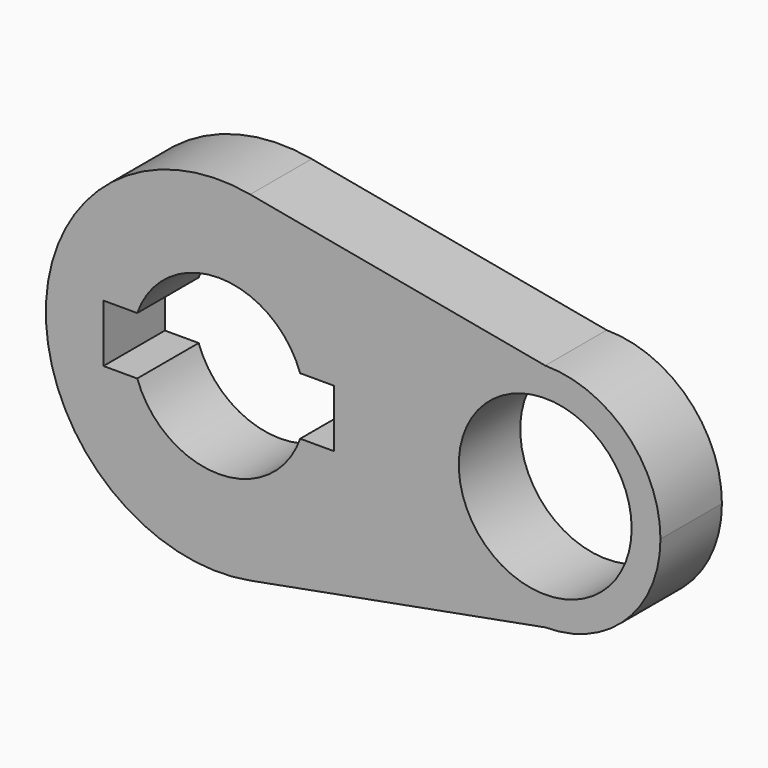
from build123d import *

# Parameters (mm, degrees)
F0_R     = 14.2875
F1_DEPTH = 12.7


with BuildPart() as f1:
    # F0 (on Front) → F1 (new body)
    with BuildSketch(Plane.XZ):
        with BuildLine():
            ThreePointArc((5.211817, -28.095686), (21.971098, -18.270235), (28.575, 0))
            ThreePointArc((28.575, 0), (21.971098, 18.270235), (5.211817, 28.095686))
            ThreePointArc((5.211817, 28.095686), (-28.575, 0), (5.211817, -28.095686))
        make_face()
        with BuildLine():
            ThreePointArc((-13.470384, 4.7625), (0, 14.2875), (13.470384, 4.7625))
            Line((13.470384, 4.7625), (19.05, 4.7625))
            Line((19.05, 4.7625), (19.05, -4.7625))
            Line((19.05, -4.7625), (13.470384, -4.7625))
            ThreePointArc((13.470384, -4.7625), (0, -14.2875), (-13.470384, -4.7625))
            Line((-13.470384, -4.7625), (-19.05, -4.7625))
            Line((-19.05, -4.7625), (-19.05, 4.7625))
            Line((-19.05, 4.7625), (-13.470384, 4.7625))
        make_face(mode=Mode.SUBTRACT)
        with BuildLine():
            ThreePointArc((5.211817, 28.095686), (21.971098, 18.270235), (28.575, 0))
            ThreePointArc((28.575, 0), (21.971098, -18.270235), (5.211817, -28.095686))
            Line((5.211817, -28.095686), (53.975, -19.05))
            ThreePointArc((53.975, -19.05), (34.925, 0), (53.975, 19.05))
            Line((53.975, 19.05), (5.211817, 28.095686))
        make_face()
        with BuildLine():
            ThreePointArc((73.025, 0), (67.445384, 13.470384), (53.975, 19.05))
            ThreePointArc((53.975, 19.05), (34.925, 0), (53.975, -19.05))
            ThreePointArc((53.975, -19.05), (67.445384, -13.470384), (73.025, 0))
        make_face()
        with Locations((53.975, 0)):
            Circle(F0_R, mode=Mode.SUBTRACT)
    extrude(amount=F1_DEPTH)


solid = f1.part
